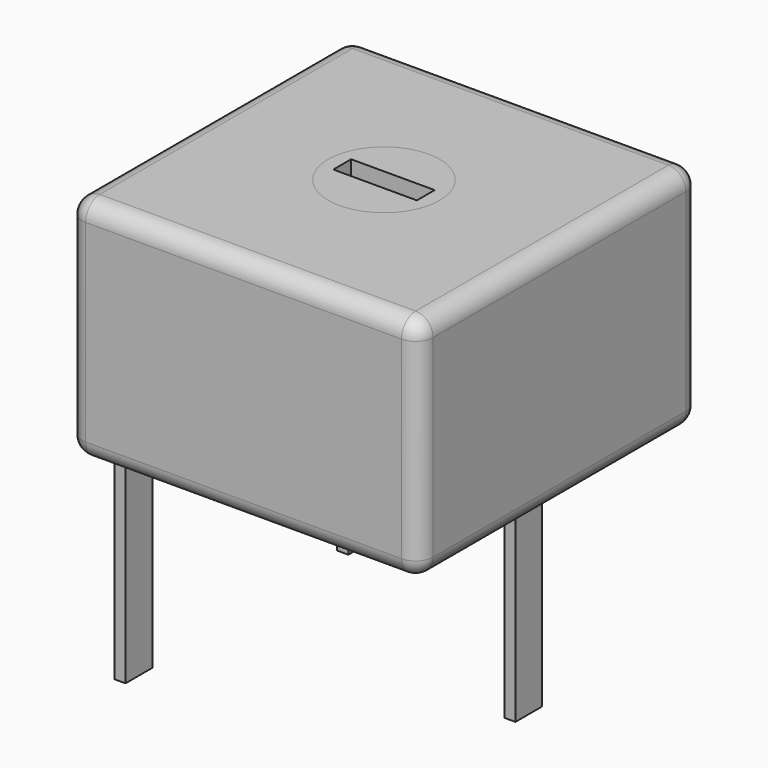
from build123d import *

# Parameters (mm, degrees)
SKETCH003_W       = 0.2
SKETCH003_H       = 0.6
PAD002_DEPTH      = 0.5
PAD002_DEPTH_BACK = 3
SKETCH004_R       = 1
SKETCH004_W       = 1.5
SKETCH004_H       = 0.4
PAD003_DEPTH      = 4.1
SKETCH_W          = 6.3
SKETCH_H          = 6.3
SKETCH_R          = 1
PAD_DEPTH         = 4.1
FILLET_R          = 0.315
SKETCH005_W       = 1.2
SKETCH005_H       = 0.6
PAD004_DEPTH      = 0.2
FILLET001_R       = 0.15


with BuildPart() as pad002:
    # Sketch003 → Pad002 (new body, two sides)
    with BuildSketch(Plane(origin=(0, 5, 0), x_dir=(1, 0, 0), z_dir=(0, 0, 1))) as pad002_sk:
        Rectangle(SKETCH003_W, SKETCH003_H)
        with Locations((5, -2.5)):
            Rectangle(SKETCH003_W, SKETCH003_H)
        with Locations((0, -5)):
            Rectangle(SKETCH003_W, SKETCH003_H)
    extrude(amount=PAD002_DEPTH)
    extrude(pad002_sk.sketch, amount=-PAD002_DEPTH_BACK)


with BuildPart() as pad003:
    # Sketch004 → Pad003 (new body)
    with BuildSketch(Plane(origin=(0, 5, 0.5), x_dir=(1, 0, 0), z_dir=(0, 0, 1))):
        with Locations((2.5, -2.5)):
            Circle(SKETCH004_R)
        with Locations((2.5, -2.5)):
            Rectangle(SKETCH004_W, SKETCH004_H, mode=Mode.SUBTRACT)
    extrude(amount=PAD003_DEPTH)


with BuildPart() as fillet_body:
    # Sketch → Pad (new body)
    with BuildSketch(Plane(origin=(0, 5, 0.5), x_dir=(1, 0, 0), z_dir=(0, 0, 1))):
        with Locations((2.5, -2.5)):
            Rectangle(SKETCH_W, SKETCH_H)
        with Locations((2.5, -2.5)):
            Circle(SKETCH_R, mode=Mode.SUBTRACT)
    extrude(amount=PAD_DEPTH)

    # Fillet
    fillet_edges = [fillet_body.edges().sort_by_distance(p)[0] for p in [
        (2.5, -0.65, 4.6),
        (-0.65, -0.65, 2.55),
        (2.5, -0.65, 0.5),
        (5.65, -0.65, 2.55),
        (5.65, 5.65, 2.55),
        (5.65, 2.5, 4.6),
        (5.65, 2.5, 0.5),
        (2.5, 5.65, 4.6),
        (-0.65, 2.5, 4.6),
        (2.5, 5.65, 0.5),
        (-0.65, 2.5, 0.5),
        (-0.65, 5.65, 2.55),
    ]]
    fillet(fillet_edges, radius=FILLET_R)


with BuildPart() as fillet001:
    # Sketch005 → Pad004 (new body)
    with BuildSketch(Plane(origin=(0, 5, 0.5), x_dir=(1, 0, 0), z_dir=(0, 0, 1))):
        with Locations((0.5, 0)):
            Rectangle(SKETCH005_W, SKETCH005_H)
        with Locations((4.5, -2.5)):
            Rectangle(SKETCH005_W, SKETCH005_H)
        with Locations((0.5, -5)):
            Rectangle(SKETCH005_W, SKETCH005_H)
    extrude(amount=PAD004_DEPTH)

    # Fillet001
    fillet001_edges = [fillet001.edges().sort_by_distance(p)[0] for p in [
        (5.1, 2.5, 0.7),
        (-0.1, 5, 0.7),
        (-0.1, 0, 0.7),
    ]]
    fillet(fillet001_edges, radius=FILLET001_R)


solid = Compound([pad002.part, pad003.part, fillet_body.part, fillet001.part])
